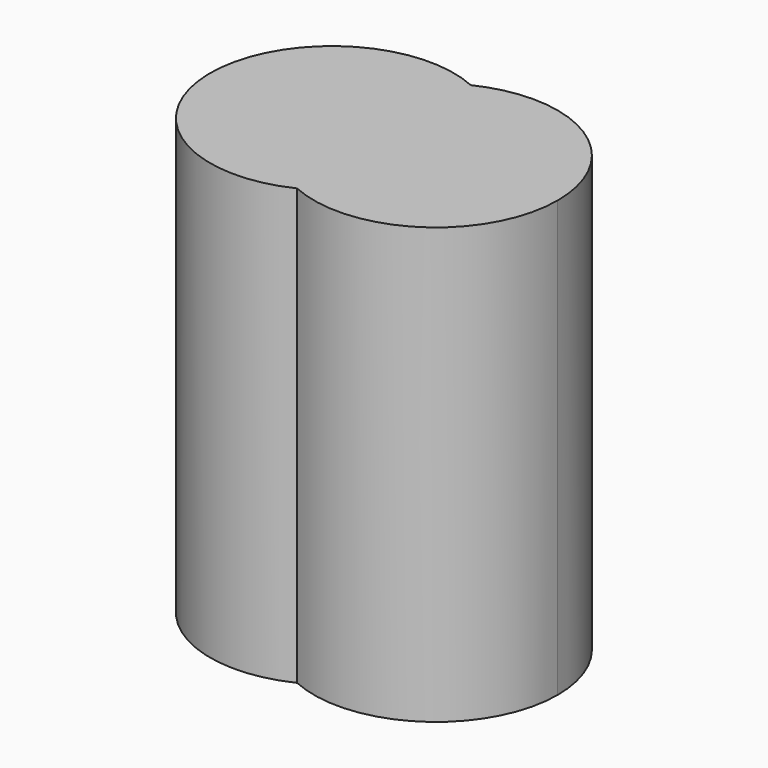
from build123d import *

# Parameters (mm, degrees)
F1_DEPTH = 5


with BuildPart() as f1:
    # F0 (on Top) → F1 (new body)
    with BuildSketch(Plane.XY):
        with BuildLine():
            ThreePointArc((-772.111881, 277.107298), (-772.939849, 278.365565), (-772.147429, 279.646516))
            ThreePointArc((-772.147429, 279.646516), (-774.119186, 278.349054), (-772.111881, 277.107298))
        make_face()
        with BuildLine():
            ThreePointArc((-771.319324, 278.368652), (-771.544451, 279.130015), (-772.147429, 279.646516))
            ThreePointArc((-772.147429, 279.646516), (-772.939849, 278.365565), (-772.111881, 277.107298))
            ThreePointArc((-772.111881, 277.107298), (-771.533908, 277.62381), (-771.319324, 278.368652))
        make_face()
        with BuildLine():
            ThreePointArc((-772.111881, 277.107298), (-770.778623, 277.21029), (-770.139986, 278.385162))
            ThreePointArc((-770.139986, 278.385162), (-770.795144, 279.570578), (-772.147429, 279.646516))
            ThreePointArc((-772.147429, 279.646516), (-771.544451, 279.130015), (-771.319324, 278.368652))
            ThreePointArc((-771.319324, 278.368652), (-771.533908, 277.62381), (-772.111881, 277.107298))
        make_face()
    extrude(amount=F1_DEPTH)


solid = f1.part
